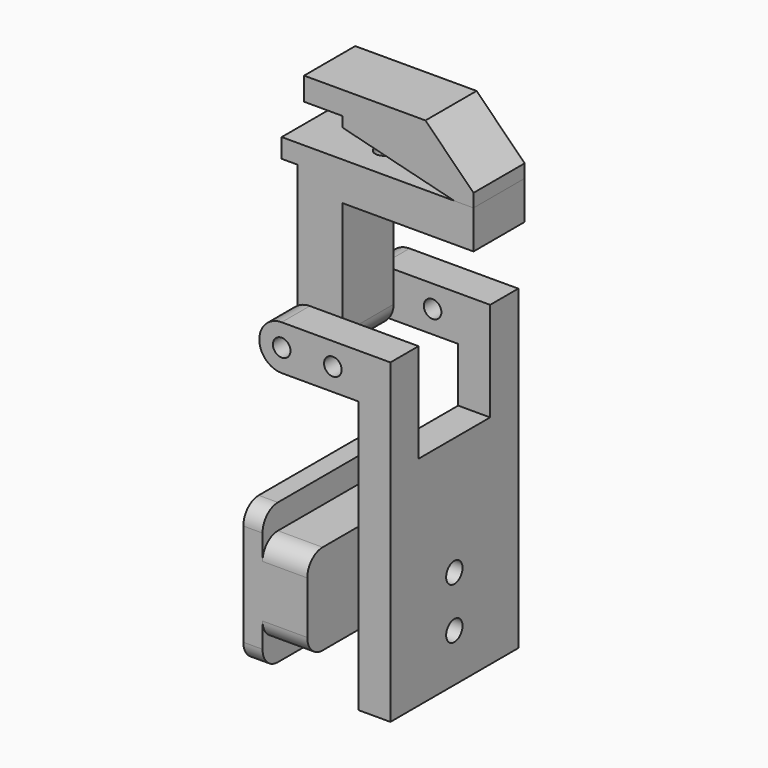
from build123d import *

# Parameters (mm, degrees)
F2_DEPTH  = 12.5
F3_R      = 3
F4_R      = 1.375
F5_DEPTH  = 10.001
F6_R      = 1.375
F7_DEPTH  = 12.5
F8_W      = 14
F8_H      = 15.5
F8_R      = 1.6
F9_DEPTH  = 23.001
F10_R     = 1.5
F11_DEPTH = 5
F12_R     = 1.375
F13_DEPTH = 12
F15_DEPTH = 5


with BuildPart() as f2:
    # F1 (on Front) → F2 (new body, symmetric)
    with BuildSketch(Plane.XZ):
        Polygon((-7.5, -4), (-10.5, -4), (-10.5, -26), (-7.5, -26), (-7.5, -22.1), (-0.5, -22.1), (-0.5, -7.9), (-7.5, -7.9), align=None)
    extrude(amount=F2_DEPTH, both=True)

    # F3
    f3_edges = [f2.edges().sort_by_distance(p)[0] for p in [
        (-4, -12.5, -7.9),
        (-9, -12.5, -4),
        (-9, -12.5, -26),
        (-4, -12.5, -22.1),
        (-4, 12.5, -7.9),
        (-9, 12.5, -4),
        (-9, 12.5, -26),
        (-4, 12.5, -22.1),
    ]]
    fillet(f3_edges, radius=F3_R)

    # F4 (on face) → F5 (cut, through all)
    with BuildSketch(Plane.YZ.offset(-0.5)):
        with Locations((0, -11)):
            Circle(F4_R)
        with Locations((0, -19)):
            Circle(F4_R)
    extrude(amount=-F5_DEPTH, mode=Mode.SUBTRACT)


with BuildPart() as f7:
    # F6 (on Front) → F7 (new body, symmetric)
    with BuildSketch(Plane.XZ):
        with BuildLine():
            ThreePointArc((-4.5, 23), (-8, 19.5), (-4.5, 16))
            Line((-4.5, 16), (7.5, 16))
            Line((7.5, 16), (7.5, -26.5))
            Line((7.5, -26.5), (12.5, -26.5))
            Line((12.5, -26.5), (12.5, 23))
            Line((12.5, 23), (-4.5, 23))
        make_face()
        with Locations((-4.5, 19.5)):
            Circle(F6_R, mode=Mode.SUBTRACT)
        with Locations((3.5, 19.5)):
            Circle(F6_R, mode=Mode.SUBTRACT)
        with BuildLine():
            ThreePointArc((-4.5, 23), (-8, 19.5), (-4.5, 16))
            Line((-4.5, 16), (7.5, 16))
            Line((7.5, 16), (7.5, -26.5))
            Line((7.5, -26.5), (12.5, -26.5))
            Line((12.5, -26.5), (12.5, 23))
            Line((12.5, 23), (-4.5, 23))
        make_face()
        with Locations((-4.5, 19.5)):
            Circle(F6_R, mode=Mode.SUBTRACT)
        with Locations((3.5, 19.5)):
            Circle(F6_R, mode=Mode.SUBTRACT)
    extrude(amount=F7_DEPTH, both=True)

    # F8 (on face) → F9 (cut, through all)
    with BuildSketch(Plane.YZ.offset(12.5)):
        with Locations((0, 15.25)):
            Rectangle(F8_W, F8_H)
        with Locations((0, -11)):
            Circle(F8_R)
        with Locations((0, -19)):
            Circle(F8_R)
    extrude(amount=-F9_DEPTH, mode=Mode.SUBTRACT)


with BuildPart() as f11:
    # F10 (on Front) → F11 (new body, symmetric)
    with BuildSketch(Plane.XZ):
        with BuildLine():
            Line((-8, 40.5), (-8, 19.5))
            ThreePointArc((-8, 19.5), (-4.5, 16), (-1, 19.5))
            Line((-1, 19.5), (-1, 37.5))
            Line((-1, 37.5), (19.5, 37.5))
            Line((19.5, 37.5), (19.5, 43.5))
            Line((19.5, 43.5), (-10.5, 43.5))
            Line((-10.5, 43.5), (-10.5, 40.5))
            Line((-10.5, 40.5), (-8, 40.5))
        make_face()
        with Locations((-4.5, 19.5)):
            Circle(F10_R, mode=Mode.SUBTRACT)
    extrude(amount=F11_DEPTH, both=True)

    # F12 (on face) → F13 (cut)
    with BuildSketch(Plane.XY.offset(43.5)):
        with Locations((1.5, 0)):
            Circle(F12_R)
        with Locations((9.5, 0)):
            Circle(F12_R)
    extrude(amount=-F13_DEPTH, mode=Mode.SUBTRACT)


with BuildPart() as f15:
    # F14 (on Front) → F15 (new body, symmetric)
    with BuildSketch(Plane.XZ):
        Polygon((11.984648183, 53.1), (-7, 53.1), (-7, 49.5), (-1, 49.5), (-1, 47.9), (16.5, 43.5), (19.5, 43.5), (19.5, 45.5762408674), align=None)
    extrude(amount=F15_DEPTH, both=True)


solid = Compound([f2.part, f7.part, f11.part, f15.part])
